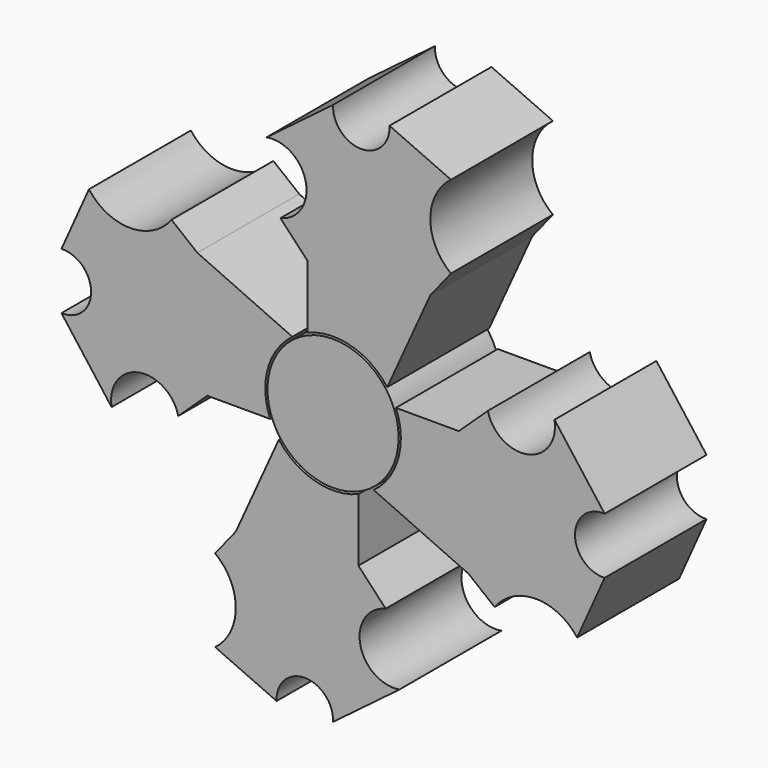
from build123d import *

# Parameters (mm, degrees)
F1_DEPTH = 25.4
F2_R     = 13.073275
F3_DEPTH = 25.4


with BuildPart() as f1:
    # F0 (on Front) → F1 (new body)
    with BuildSketch(Plane.XZ):
        with BuildLine():
            ThreePointArc((12.536862, 5.052993), (13.269602, 2.573574), (13.516865, 0))
            ThreePointArc((13.516865, 0), (12.091923, -6.040781), (8.11753, -10.80793))
            Line((8.11753, -10.80793), (27.059384, -19.394918))
            Line((27.059384, -19.394918), (32.221321, -23.518622))
            ThreePointArc((32.221321, -23.518622), (40.448155, -19.394918), (48.674989, -23.518622))
            Line((48.674989, -23.518622), (54.159544, -11.259025))
            ThreePointArc((54.159544, -11.259025), (48.24905, -5.629512), (54.159544, 0))
            Line((54.159544, 0), (44.158295, 13.260169))
            ThreePointArc((44.158295, 13.260169), (38.852376, 5.431039), (30.863116, 10.492637))
            Line((30.863116, 10.492637), (25.08549, 5.052993))
            Line((25.08549, 5.052993), (12.536862, 5.052993))
        make_face()
        with BuildLine():
            ThreePointArc((-5.052993, 12.536862), (3.628009, 13.020875), (10.80793, 8.11753))
            Line((10.80793, 8.11753), (19.394918, 27.059384))
            Line((19.394918, 27.059384), (23.518622, 32.221321))
            ThreePointArc((23.518622, 32.221321), (19.394918, 40.448155), (23.518622, 48.674989))
            Line((23.518622, 48.674989), (11.259025, 54.159544))
            ThreePointArc((11.259025, 54.159544), (5.629512, 48.24905), (0, 54.159544))
            Line((0, 54.159544), (-13.260169, 44.158295))
            ThreePointArc((-13.260169, 44.158295), (-5.431039, 38.852376), (-10.492637, 30.863116))
            Line((-10.492637, 30.863116), (-5.052993, 25.08549))
            Line((-5.052993, 25.08549), (-5.052993, 12.536862))
        make_face()
        with BuildLine():
            ThreePointArc((-12.536862, -5.052993), (-13.020875, 3.628009), (-8.11753, 10.80793))
            Line((-8.11753, 10.80793), (-27.059384, 19.394918))
            Line((-27.059384, 19.394918), (-32.221321, 23.518622))
            ThreePointArc((-32.221321, 23.518622), (-40.448155, 19.394918), (-48.674989, 23.518622))
            Line((-48.674989, 23.518622), (-54.159544, 11.259025))
            ThreePointArc((-54.159544, 11.259025), (-48.24905, 5.629512), (-54.159544, 0))
            Line((-54.159544, 0), (-44.158295, -13.260169))
            ThreePointArc((-44.158295, -13.260169), (-38.852376, -5.431039), (-30.863116, -10.492637))
            Line((-30.863116, -10.492637), (-25.08549, -5.052993))
            Line((-25.08549, -5.052993), (-12.536862, -5.052993))
        make_face()
        with BuildLine():
            Line((5.052993, -25.08549), (5.052993, -12.536862))
            ThreePointArc((5.052993, -12.536862), (-3.628009, -13.020875), (-10.80793, -8.11753))
            Line((-10.80793, -8.11753), (-19.394918, -27.059384))
            Line((-19.394918, -27.059384), (-23.518622, -32.221321))
            ThreePointArc((-23.518622, -32.221321), (-19.394918, -40.448155), (-23.518622, -48.674989))
            Line((-23.518622, -48.674989), (-11.259025, -54.159544))
            ThreePointArc((-11.259025, -54.159544), (-5.629512, -48.24905), (0, -54.159544))
            Line((0, -54.159544), (13.260169, -44.158295))
            ThreePointArc((13.260169, -44.158295), (5.431039, -38.852376), (10.492637, -30.863116))
            Line((10.492637, -30.863116), (5.052993, -25.08549))
        make_face()
    extrude(amount=F1_DEPTH)


with BuildPart() as f3:
    # F2 (on Front) → F3 (new body)
    with BuildSketch(Plane.XZ):
        Circle(F2_R)
    extrude(amount=F3_DEPTH)


solid = Compound([f1.part, f3.part])
